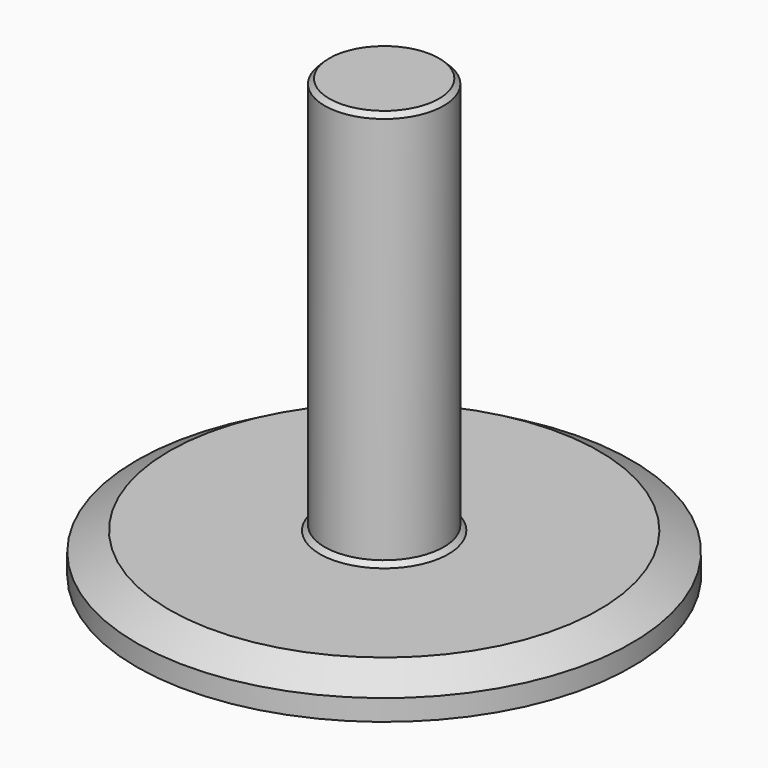
from build123d import *

# Parameters (mm, degrees)
F2_SIZE  = 0.75
F3_SIZE2 = 3
F3_SIZE  = 5.1961524227
F5_D     = 5.4102
F5_DEPTH = 21.721
F5_TIP   = 1.6253880605


with BuildPart() as f1:
    # F0 (on Front) → F1 (revolve)
    with BuildSketch(Plane.XZ):
        Polygon((-32, 0), (0, 0), (0, 70.85), (-9.5, 70.85), (-9.5, 7.35), (-39.5, 7.35), (-39.5, 1), (-32, 1), align=None)
    revolve(axis=Axis((0, 0, 35.425), (0, 0, -1)))

    # F2
    f2_edges = [f1.edges().sort_by_distance(p)[0] for p in [
        (9.5, 0, 70.85),
        (9.5, 0, 7.35),
    ]]
    chamfer(f2_edges, length=F2_SIZE)

    # F3
    f3_edges = [f1.edges().sort_by_distance(p)[0] for p in [
        (39.5, 0, 7.35),
    ]]
    f3_side = f1.faces().sort_by_distance((11.367229, 0, 7.35))[0]
    chamfer(f3_edges, length=F3_SIZE, length2=F3_SIZE2, reference=f3_side)

    # F5
    with Locations(Plane(origin=(0, 0, 0), x_dir=(1, 0, 0), z_dir=(0, 0, -1))):
        with Locations((0, 0)):
            Hole(F5_D / 2, depth=F5_DEPTH)
            with Locations((0, 0, -(F5_DEPTH + F5_TIP / 2))):  # 118° drill point
                Cone(0, F5_D / 2, F5_TIP, mode=Mode.SUBTRACT)


solid = f1.part
